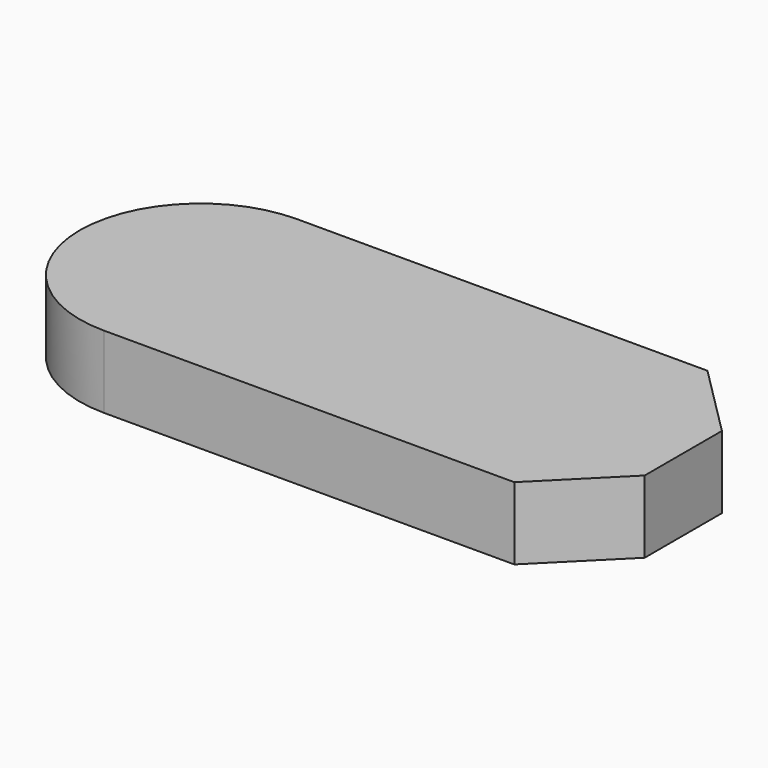
from build123d import *

# Parameters (mm, degrees)
F1_DEPTH = 9


with BuildPart() as f1:
    # F0 (on Top) → F1 (new body)
    with BuildSketch(Plane.XY):
        with BuildLine():
            Line((51, 30), (0, 30))
            ThreePointArc((0, 30), (-15, 15), (0, 0))
            Line((0, 0), (51, 0))
            Line((51, 0), (60, 9))
            Line((60, 9), (60, 21))
            Line((60, 21), (51, 30))
        make_face()
    extrude(amount=F1_DEPTH)


solid = f1.part
